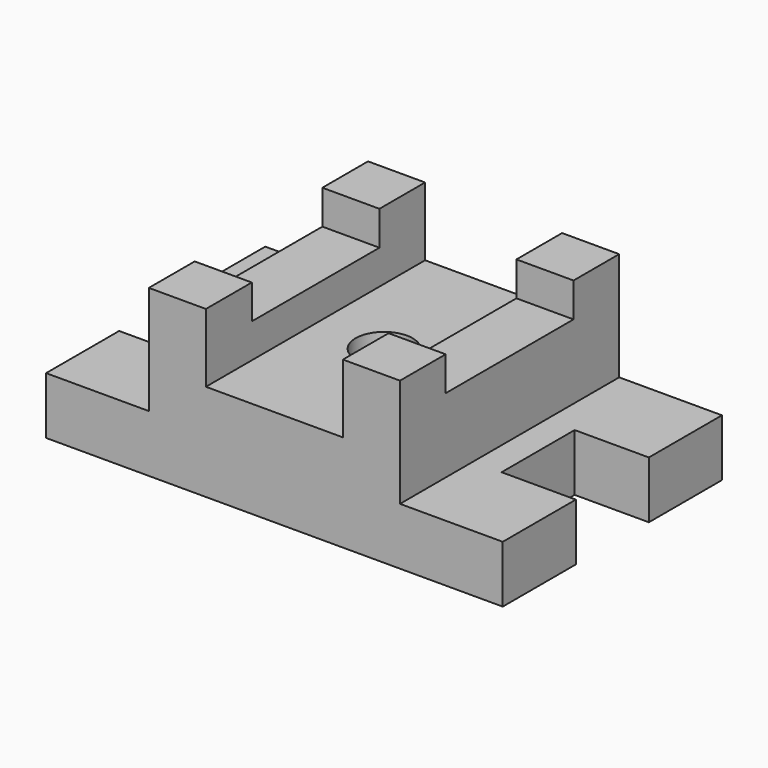
from build123d import *

# Parameters (mm, degrees)
F0_W     = 31.75
F0_H     = 31.75
F0_H_2   = 31.896308
F1_DEPTH = 92.075
F2_DEPTH = 31.75
F0_H_3   = 88.753692
F0_H_4   = 88.9
F3_DEPTH = 73.025
F0_R     = 15.875
F4_DEPTH = 53.975
F5_DEPTH = 22.225


with BuildPart() as f1:
    # F0 (on Top) → F1 (new body)
    with BuildSketch(Plane.XY):
        with Locations((53.975, -60.398154)):
            Rectangle(F0_W, F0_H)
        with Locations((53.975, 60.251846)):
            Rectangle(F0_W, F0_H)
        with Locations((-53.975, 60.251846)):
            Rectangle(F0_W, F0_H)
        with Locations((-53.975, -60.325)):
            Rectangle(F0_W, F0_H_2)
    extrude(amount=F1_DEPTH)

    # F0 (on Top) → F2 (join)
    with BuildSketch(Plane.XY):
        Polygon((-127, -76.273154), (-69.85, -76.273154), (-69.85, -44.376846), (-69.85, 44.376846), (-69.85, 76.126846), (-127, 76.126846), (-127, 25.326846), (-85.725, 25.326846), (-85.725, -25.473154), (-127, -25.473154), align=None)
        Polygon((69.85, -44.523154), (69.85, -76.273154), (127, -76.273154), (127, -25.473154), (85.725, -25.473154), (85.725, 25.326846), (127, 25.326846), (127, 76.126846), (69.85, 76.126846), (69.85, 44.376846), align=None)
    extrude(amount=F2_DEPTH)

    # F0 (on Top) → F3 (join)
    with BuildSketch(Plane.XY):
        with Locations((-53.975, 0)):
            Rectangle(F0_W, F0_H_3)
        with Locations((53.975, -0.073154)):
            Rectangle(F0_W, F0_H_4)
    extrude(amount=F3_DEPTH)

    # F0 (on Top) → F4 (join)
    with BuildSketch(Plane.XY):
        Polygon((-38.1, -44.376846), (-38.1, -76.273154), (38.1, -76.273154), (38.1, -44.523154), (38.1, 44.376846), (38.1, 76.126846), (-38.1, 76.126846), (-38.1, 44.376846), align=None)
        Circle(F0_R, mode=Mode.SUBTRACT)
    extrude(amount=F4_DEPTH)

    # F0 (on Top) → F5 (join)
    with BuildSketch(Plane.XY):
        Circle(F0_R)
    extrude(amount=F5_DEPTH)


solid = f1.part
